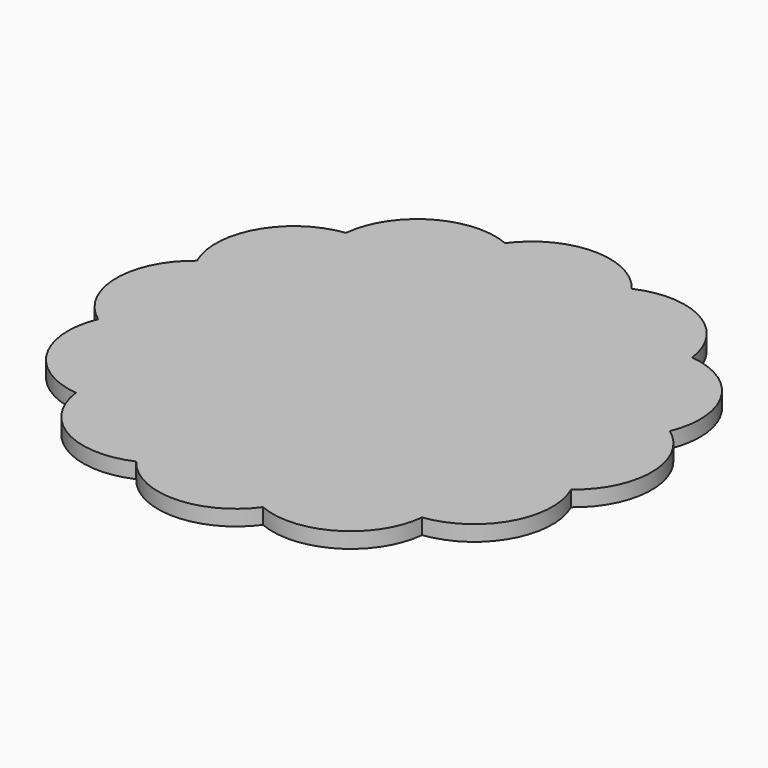
from build123d import *

# Parameters (mm, degrees)
F1_DEPTH = 1


with BuildPart() as f1:
    # F0 (on Top) → F1 (new body)
    with BuildSketch(Plane.XY):
        Polygon((11.114612, -10.84526), (15.048167, -3.834964), (14.949577, 4.202907), (10.84526, 11.114612), (3.834964, 15.048167), (-4.202907, 14.949577), (-11.114612, 10.84526), (-15.048167, 3.834964), (-14.949577, -4.202907), (-10.84526, -11.114612), (-3.834964, -15.048167), (4.202907, -14.949577), align=None)
        Polygon((2.15, 3.723909), (4.3, 0), (2.15, -3.723909), (-2.15, -3.723909), (-4.3, 0), (-2.15, 3.723909), align=None, mode=Mode.SUBTRACT)
        with BuildLine():
            ThreePointArc((-3.834964, -15.048167), (0.208817, -17.024543), (4.202907, -14.949577))
            Line((4.202907, -14.949577), (-3.834964, -15.048167))
        make_face()
        with BuildLine():
            ThreePointArc((-15.048167, 3.834964), (-17.024543, -0.208817), (-14.949577, -4.202907))
            Line((-14.949577, -4.202907), (-15.048167, 3.834964))
        make_face()
        with BuildLine():
            Line((10.84526, 11.114612), (14.949577, 4.202907))
            ThreePointArc((14.949577, 4.202907), (14.639278, 8.693113), (10.84526, 11.114612))
        make_face()
        with BuildLine():
            ThreePointArc((11.114612, -10.84526), (14.848095, -8.33143), (15.048167, -3.834964))
            Line((15.048167, -3.834964), (11.114612, -10.84526))
        make_face()
        with BuildLine():
            ThreePointArc((4.202907, -14.949577), (8.693113, -14.639278), (11.114612, -10.84526))
            Line((11.114612, -10.84526), (4.202907, -14.949577))
        make_face()
        with BuildLine():
            ThreePointArc((-10.84526, -11.114612), (-8.33143, -14.848095), (-3.834964, -15.048167))
            Line((-3.834964, -15.048167), (-10.84526, -11.114612))
        make_face()
        with BuildLine():
            ThreePointArc((-14.949577, -4.202907), (-14.639278, -8.693113), (-10.84526, -11.114612))
            Line((-10.84526, -11.114612), (-14.949577, -4.202907))
        make_face()
        with BuildLine():
            Line((-15.048167, 3.834964), (-11.114612, 10.84526))
            ThreePointArc((-11.114612, 10.84526), (-14.848095, 8.33143), (-15.048167, 3.834964))
        make_face()
        with BuildLine():
            Line((-4.202907, 14.949577), (3.834964, 15.048167))
            ThreePointArc((3.834964, 15.048167), (-0.208817, 17.024543), (-4.202907, 14.949577))
        make_face()
        with BuildLine():
            Line((3.834964, 15.048167), (10.84526, 11.114612))
            ThreePointArc((10.84526, 11.114612), (8.33143, 14.848095), (3.834964, 15.048167))
        make_face()
        with BuildLine():
            Line((14.949577, 4.202907), (15.048167, -3.834964))
            ThreePointArc((15.048167, -3.834964), (17.024543, 0.208817), (14.949577, 4.202907))
        make_face()
        Polygon((2.15, -3.723909), (4.3, 0), (2.15, 3.723909), (-2.15, 3.723909), (-4.3, 0), (-2.15, -3.723909), align=None)
        with BuildLine():
            Line((-11.114612, 10.84526), (-4.202907, 14.949577))
            ThreePointArc((-4.202907, 14.949577), (-8.693113, 14.639278), (-11.114612, 10.84526))
        make_face()
    extrude(amount=F1_DEPTH)


solid = f1.part
